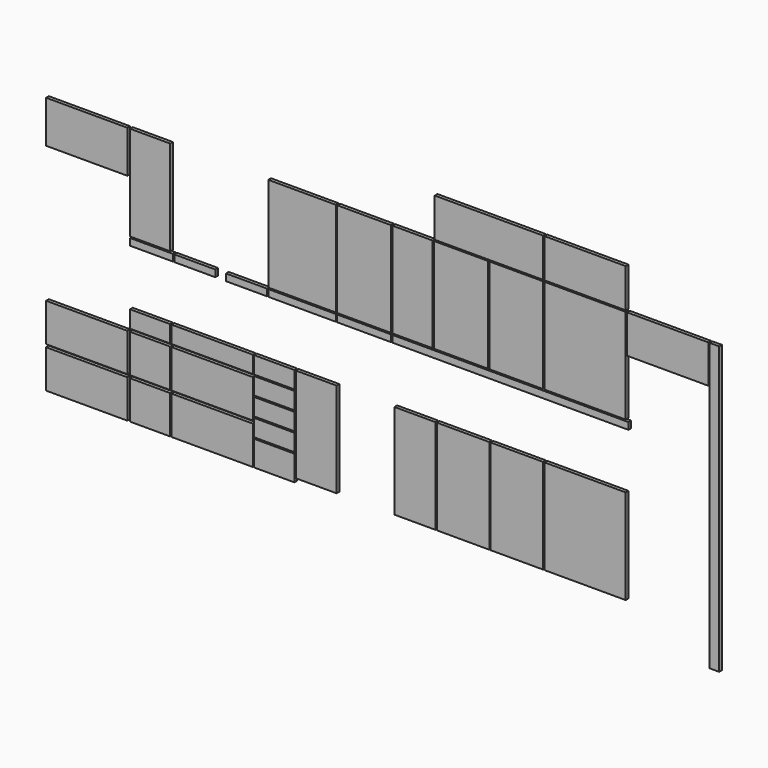
from build123d import *

# Parameters (mm, degrees)
F1_W     = 295
F1_H     = 695
F1_W_2   = 395
F1_W_3   = 595
F1_H_2   = 280
F1_H_3   = 285
F1_W_4   = 795
F1_W_5   = 70
F1_H_4   = 2100
F1_W_6   = 1730
F1_H_5   = 50
F1_W_7   = 300
F1_W_8   = 385
F0_W     = 595
F0_H     = 310
F0_H_2   = 280
F0_W_2   = 295
F0_H_3   = 695
F0_H_4   = 125
F0_W_3   = 300
F0_H_5   = 50
F0_W_4   = 315
F0_H_6   = 185
F0_W_5   = 495
F0_W_6   = 395
F2_DEPTH = 25


with BuildPart() as f2:
    # F1 (on Front) + F0 (on Front) → F2 (new body)
    with BuildSketch(Plane.XZ):
        with Locations((1802.780025, -637.96078)):
            Rectangle(F1_W, F1_H)
        with Locations((2157.780025, -637.96078)):
            Rectangle(F1_W_2, F1_H)
        with Locations((2562.780025, -637.96078)):
            Rectangle(F1_W_2, F1_H)
        with Locations((3067.780025, -637.96078)):
            Rectangle(F1_W_3, F1_H)
        with Locations((3672.780025, -430.46078)):
            Rectangle(F1_W_3, F1_H_2)
        with Locations((3067.780025, -137.96078)):
            Rectangle(F1_W_3, F1_H_3)
        with Locations((2362.780025, -137.96078)):
            Rectangle(F1_W_4, F1_H_3)
        with Locations((4015.280025, -1340.46078)):
            Rectangle(F1_W_5, F1_H_4)
        with Locations((2520.280025, -1020.46078)):
            Rectangle(F1_W_6, F1_H_5)
        with Locations((1820.280025, -1802.96078)):
            Rectangle(F1_W_7, F1_H)
        with Locations((2172.780025, -1802.96078)):
            Rectangle(F1_W_8, F1_H)
        with Locations((2567.780025, -1802.96078)):
            Rectangle(F1_W_8, F1_H)
        with Locations((3067.780025, -1802.96078)):
            Rectangle(F1_W_3, F1_H)
    with BuildSketch(Plane.XZ):
        with Locations((-585.64358, -445.46078)):
            Rectangle(F0_W, F0_H)
        with Locations((-585.64358, -1740.46078)):
            Rectangle(F0_W, F0_H_2)
        with Locations((-585.64358, -2040.46078)):
            Rectangle(F0_W, F0_H_2)
        with Locations((-120.64358, -637.96078)):
            Rectangle(F0_W_2, F0_H_3)
        with Locations((-120.64358, -1740.46078)):
            Rectangle(F0_W_2, F0_H_2)
        with Locations((-120.64358, -2040.46078)):
            Rectangle(F0_W_2, F0_H_2)
        with Locations((-120.64358, -1517.96078)):
            Rectangle(F0_W_2, F0_H_4)
        with Locations((334.35642, -1517.96078)):
            Rectangle(F0_W, F0_H_4)
        with Locations((334.35642, -1740.46078)):
            Rectangle(F0_W, F0_H_2)
        with Locations((334.35642, -2040.46078)):
            Rectangle(F0_W, F0_H_2)
        with Locations((206.85642, -1020.46078)):
            Rectangle(F0_W_3, F0_H_5)
        with Locations((-110.64358, -1020.46078)):
            Rectangle(F0_W_4, F0_H_5)
        with Locations((789.35642, -1517.96078)):
            Rectangle(F0_W_2, F0_H_4)
        with Locations((789.35642, -1787.96078)):
            Rectangle(F0_W_2, F0_H_4)
        with Locations((789.35642, -1922.96078)):
            Rectangle(F0_W_2, F0_H_4)
        with Locations((789.35642, -2087.96078)):
            Rectangle(F0_W_2, F0_H_6)
        with Locations((789.35642, -1652.96078)):
            Rectangle(F0_W_2, F0_H_4)
        with Locations((992.780025, -637.96078)):
            Rectangle(F0_W_5, F0_H_3)
        with Locations((992.780025, -1020.46078)):
            Rectangle(F0_W_5, F0_H_5)
        with Locations((585.280025, -1020.46078)):
            Rectangle(F0_W_3, F0_H_5)
        with Locations((1447.780025, -637.96078)):
            Rectangle(F0_W_6, F0_H_3)
        with Locations((1447.780025, -1020.46078)):
            Rectangle(F0_W_6, F0_H_5)
        with Locations((1096.85642, -1802.96078)):
            Rectangle(F0_W_3, F0_H_3)
    extrude(amount=F2_DEPTH)


solid = f2.part
